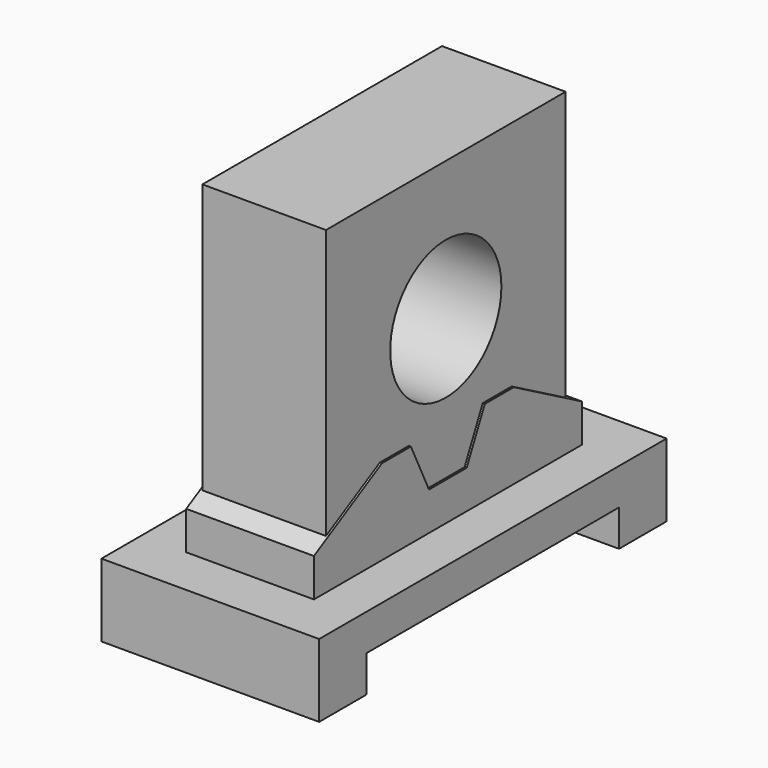
from build123d import *

# Parameters (mm, degrees)
F1_DEPTH = 4.699
F3_DEPTH = 2.7559
F4_W     = 12.9286
F4_H     = 13.7
F4_R     = 3
F5_DEPTH = 2.667


with BuildPart() as f1:
    # F0 (on Right) → F1 (new body, symmetric)
    with BuildSketch(Plane.YZ):
        Polygon((9.3726, 3.1496), (-9.3726, 3.1496), (-9.3726, 0), (-6.8072, 0), (-6.8072, 1.5748), (6.8072, 1.5748), (6.8072, 0), (9.3726, 0), align=None)
    extrude(amount=F1_DEPTH, both=True)

    # F2 (on Right) → F3 (join, symmetric)
    with BuildSketch(Plane.YZ):
        Polygon((-7.2263, 4.8006), (-7.2263, 3.1496), (7.2263, 3.1496), (7.2263, 4.8006), (3.556, 6.8326), (1.9939, 6.8326), (1.016, 4.8006), (0, 4.8006), (-1.016, 4.8006), (-1.9939, 6.8326), (-3.556, 6.8326), align=None)
    extrude(amount=F3_DEPTH, both=True)

    # F4 (on Right) → F5 (join, symmetric)
    with BuildSketch(Plane.YZ):
        with Locations((0, 9.9996)):
            Rectangle(F4_W, F4_H)
        with Locations((0, 10.8496)):
            Circle(F4_R, mode=Mode.SUBTRACT)
    extrude(amount=F5_DEPTH, both=True)


solid = f1.part
